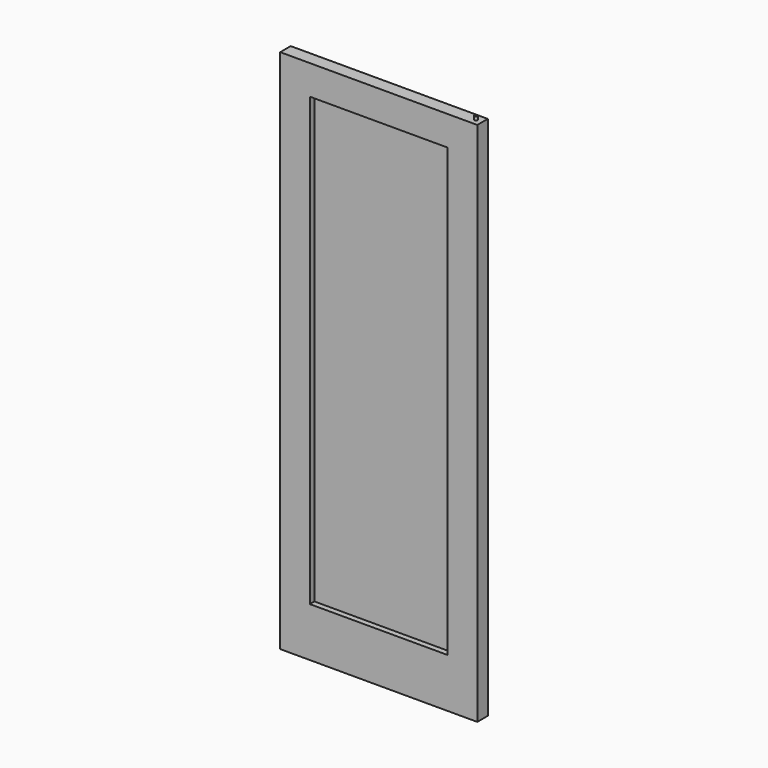
from build123d import *

# Parameters (mm, degrees)
F0_W          = 762
F0_H          = 2032
F0_W_2        = 533.4
F0_H_2        = 1727.2
F1_DEPTH      = 25.4
F1_DEPTH_BACK = 25.4
F2_DEPTH      = 3.175
F2_DEPTH_BACK = 3.175
F3_R          = 6.35
F4_DEPTH      = 12.7
F4_DEPTH_BACK = 2044.7


with BuildPart() as f1:
    # F0 (on Front) → F1 (new body, two sides)
    with BuildSketch(Plane.XZ) as f1_sk:
        Rectangle(F0_W, F0_H)
        with Locations((0, 38.1)):
            Rectangle(F0_W_2, F0_H_2, mode=Mode.SUBTRACT)
    extrude(amount=F1_DEPTH)
    extrude(f1_sk.sketch, amount=-F1_DEPTH_BACK)

    # F3 (on face) → F4 (join, two sides)
    with BuildSketch(Plane.XY.offset(1016)) as f4_sk:
        with Locations((355.6, 0)):
            Circle(F3_R)
    extrude(amount=F4_DEPTH)
    extrude(f4_sk.sketch, amount=-F4_DEPTH_BACK)


with BuildPart() as f2:
    # F0 (on Front) → F2 (new body, two sides)
    with BuildSketch(Plane.XZ) as f2_sk:
        with Locations((0, 38.1)):
            Rectangle(F0_W_2, F0_H_2)
    extrude(amount=F2_DEPTH)
    extrude(f2_sk.sketch, amount=-F2_DEPTH_BACK)


solid = Compound([f1.part, f2.part])
